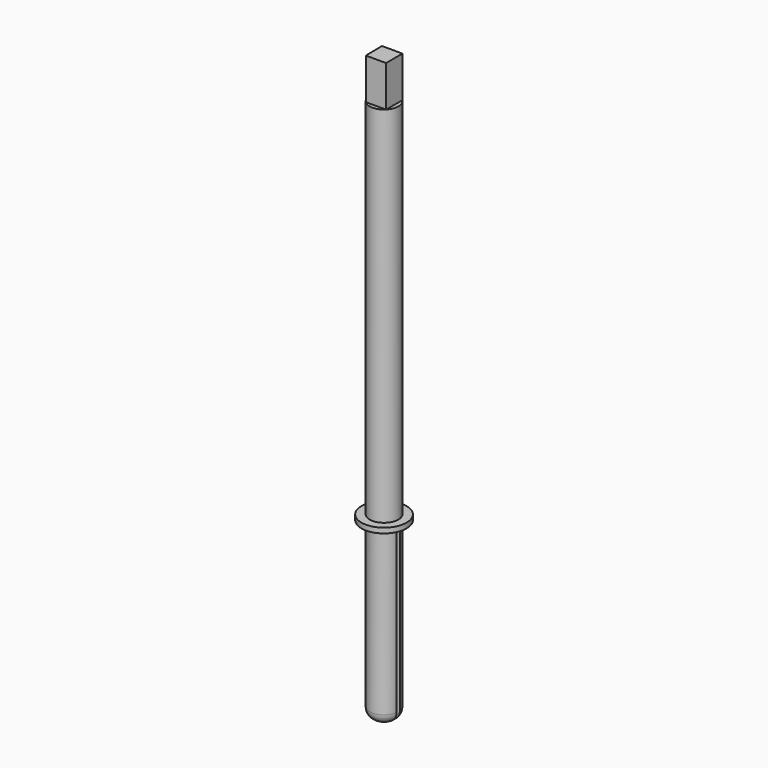
from build123d import *

# Parameters (mm, degrees)
F1_R           = 22
F2_DEPTH       = 5
F3_R           = 14
F4_DEPTH       = 355
F4_DEPTH_BACK  = 175
F6_DEPTH       = 40
F7_R           = 10
F9_W           = 4
F9_H           = 175
F10_DEPTH      = 43.001
F10_DEPTH_BACK = 25


with BuildPart() as f2:
    # F1 (on offset) → F2 (new body)
    with BuildSketch(Plane.XY.offset(275)):
        with Locations((154, 0)):
            Circle(F1_R)
    extrude(amount=F2_DEPTH)

    # F3 (on face) → F4 (join, two sides)
    with BuildSketch(Plane.XY.offset(280)) as f4_sk:
        with Locations((154, 0)):
            Circle(F3_R)
    extrude(amount=F4_DEPTH)
    extrude(f4_sk.sketch, amount=-F4_DEPTH_BACK)

    # F5 (on face) → F6 (join)
    with BuildSketch(Plane.XY.offset(635)):
        Polygon((164, 9.7979589711), (163.7979589711, 10), (144.2020410289, 10), (144, 9.8020410289), (144, 9.7979589711), (144.2020410289, -10), (163.8020410289, -10), (164, -9.7979589711), align=None)
    extrude(amount=F6_DEPTH)

    # F7
    f7_edges = [f2.edges().sort_by_distance(p)[0] for p in [
        (140, 0, 105),
    ]]
    fillet(f7_edges, radius=F7_R)

    # F9 (on offset) → F10 (cut, two sides)
    with BuildSketch(Plane.YZ.offset(175)) as f10_sk:
        with Locations((0, 187.5)):
            Rectangle(F9_W, F9_H)
    extrude(amount=-F10_DEPTH, mode=Mode.SUBTRACT)
    extrude(f10_sk.sketch, amount=F10_DEPTH_BACK, mode=Mode.SUBTRACT)


solid = f2.part
